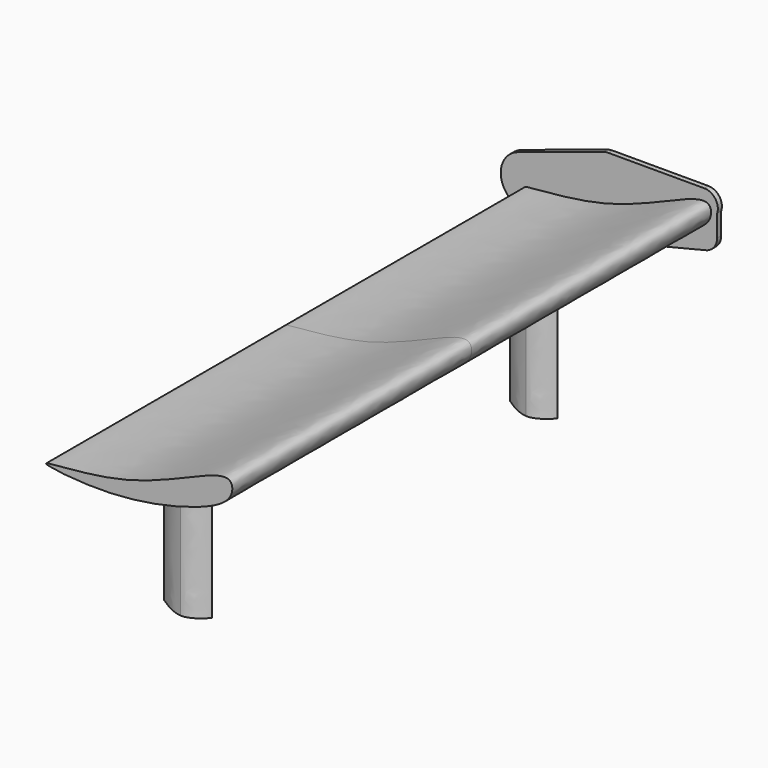
from build123d import *

# Parameters (mm, degrees)
F1_DEPTH      = 60.96
F1_DEPTH_BACK = 60.96
F7_DEPTH      = 1.04


with BuildPart() as f1:
    # F0 (on Front) → F1 (new body, two sides)
    with BuildSketch(Plane.XZ) as f1_sk:
        with BuildLine():
            add(Edge.make_bspline(
                [(0, 0), (0.0393461248, 0.4779197401), (18.7012359263, 0.2781647283), (37.7116659782, 12.2126274722), (38.2771249724, 5.8168191369), (31.7260274585, 1.8439579102), (14.0903211382, -2.2356094109), (-0.0328089706, -0.3985158582), (0, 0)],
                knots=[0, 0, 0, 0, 0.199074463, 0.4174667979, 0.4949173609, 0.6173953776, 0.8340007248, 1, 1, 1, 1], degree=3))
        make_face()
    extrude(amount=F1_DEPTH)
    extrude(f1_sk.sketch, amount=-F1_DEPTH_BACK)

    # F3 (on offset) → F4 (join, up to the next surface of F1)
    with BuildSketch(Plane.XY.offset(-28)):
        with BuildLine():
            add(Edge.make_bspline(
                [(10.5, -44), (11.4590637386, -43.3846754134), (13.7681274351, -41.6737130668), (15.7967957963, -41.5082720751)],
                knots=[0, 0, 0, 0, 5.8536103184, 5.8536103184, 5.8536103184, 5.8536103184], degree=3))
            add(Edge.make_bspline(
                [(10.5, -44), (11.4590637386, -44.6153245866), (13.7681274351, -46.3262869332), (15.7967957963, -46.4917279249)],
                knots=[0, 0, 0, 0, 5.8536103184, 5.8536103184, 5.8536103184, 5.8536103184], degree=3))
            add(Edge.make_bspline(
                [(20.2, -44), (20.0315639377, -44.3157479167), (17.916939699, -46.6646277583), (15.7967957963, -46.4917279249)],
                knots=[0, 0, 0, 0, 5.0593394145, 5.0593394145, 5.0593394145, 5.0593394145], degree=3))
            add(Edge.make_bspline(
                [(20.2, -44), (20.0315639377, -43.6842520833), (17.916939699, -41.3353722417), (15.7967957963, -41.5082720751)],
                knots=[0, 0, 0, 0, 5.0593394145, 5.0593394145, 5.0593394145, 5.0593394145], degree=3))
        make_face()
        with BuildLine():
            add(Edge.make_bspline(
                [(20.2, 44), (20.0315639377, 43.6842520833), (17.916939699, 41.3353722417), (15.7967957963, 41.5082720751)],
                knots=[0, 0, 0, 0, 5.0593394145, 5.0593394145, 5.0593394145, 5.0593394145], degree=3))
            add(Edge.make_bspline(
                [(20.2, 44), (20.0315639377, 44.3157479167), (17.916939699, 46.6646277583), (15.7967957963, 46.4917279249)],
                knots=[0, 0, 0, 0, 5.0593394145, 5.0593394145, 5.0593394145, 5.0593394145], degree=3))
            add(Edge.make_bspline(
                [(10.5, 44), (11.4590637386, 44.6153245866), (13.7681274351, 46.3262869332), (15.7967957963, 46.4917279249)],
                knots=[0, 0, 0, 0, 5.8536103184, 5.8536103184, 5.8536103184, 5.8536103184], degree=3))
            add(Edge.make_bspline(
                [(10.5, 44), (11.4590637386, 43.3846754134), (13.7681274351, 41.6737130668), (15.7967957963, 41.5082720751)],
                knots=[0, 0, 0, 0, 5.8536103184, 5.8536103184, 5.8536103184, 5.8536103184], degree=3))
        make_face()
    extrude(until=Until.NEXT)

    # F6 (on offset) → F7 (join, through all)
    with BuildSketch(Plane.XZ.offset(-62)):
        with BuildLine():
            ThreePointArc((17.0109777057, 11.6861678816), (16.5080422338, 11.6462645445), (16.0176914036, 11.5275530098))
            Line((16.0176914036, 11.5275530098), (-1.4087777616, 5.8163581298))
            ThreePointArc((-1.4087777616, 5.8163581298), (-4.9096159138, 0.6294888468), (-0.7502272372, -4.045868526))
            Line((-0.7502272372, -4.045868526), (8.6884471518, -5.7960862022))
            ThreePointArc((8.6884471518, -5.7960862022), (9.7615862495, -5.8790673919), (10.8281095329, -5.7340105529))
            Line((10.8281095329, -5.7340105529), (36.8697101199, 0.6762285223))
            ThreePointArc((36.8697101199, 0.6762285223), (38.513051101, 1.7381937707), (39.1514454343, 3.5877322115))
            Line((39.1514454343, 3.5877322115), (39.1514454343, 8.0203174915))
            ThreePointArc((39.1514454343, 8.0203174915), (38.7946824019, 10.5255933482), (36.545959713, 11.6861678816))
            Line((36.545959713, 11.6861678816), (17.0109777057, 11.6861678816))
        make_face()
    extrude(amount=F7_DEPTH)


solid = f1.part
